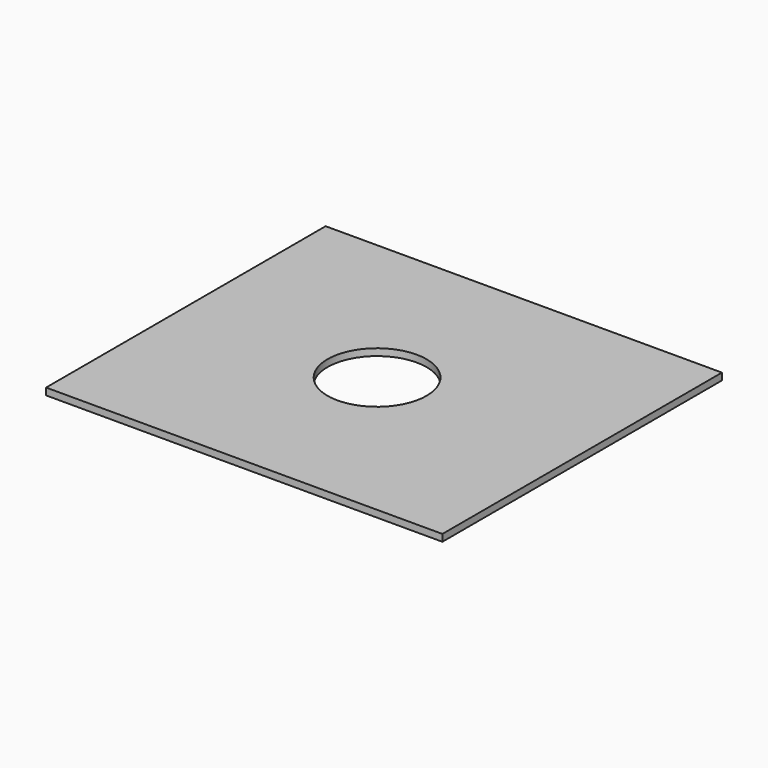
from build123d import *

# Parameters (mm, degrees)
CYLINDER_R        = 76.2
CYLINDER_DEPTH    = 10.668
BOX010_W          = 609.6
BOX010_H          = 10.668
BOX010_DEPTH      = 537.464
BOX010_ROLL_ANGLE = -90.0000000001


with BuildPart() as cablecutout:
    # Cylinder → Cylinder (new body)
    with BuildSketch(Plane(origin=(304.8, 304.8, 598.932), x_dir=(1, 0, 0), z_dir=(0, 0, 1))):
        Circle(CYLINDER_R)
    extrude(amount=CYLINDER_DEPTH)


with BuildPart() as centersupport:
    # Box010 → Box010 (new body)
    with BuildSketch(Plane.XY):
        with Locations((304.8, 5.334)):
            Rectangle(BOX010_W, BOX010_H)
    extrude(amount=BOX010_DEPTH)


with BuildPart() as centersupport_1:
    # Box010 roll: moved
    add(centersupport.part.rotate(Axis((0, 0, 0), (1, 0, 0)), BOX010_ROLL_ANGLE))


with BuildPart() as centersupport_2:
    # Box010 placement: moved
    add(centersupport_1.part.moved(Location((10.668, 36.068, 609.6))))

    # Cut: cut CableCutout
    add(cablecutout.part, mode=Mode.SUBTRACT)


solid = centersupport_2.part
